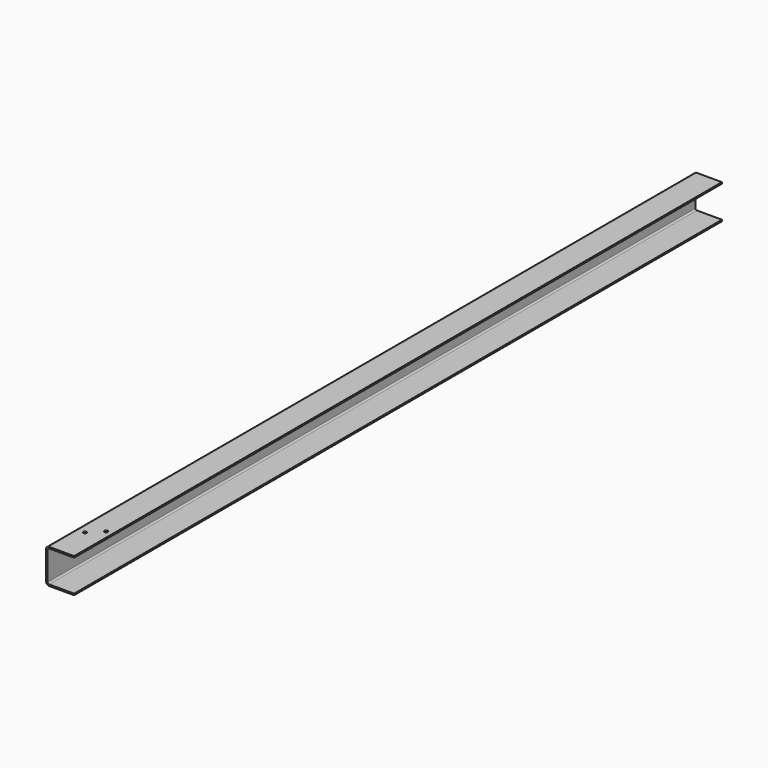
from build123d import *

# Parameters (mm, degrees)
F1_DEPTH = 2168
F4_R     = 4.5
F5_DEPTH = 4


with BuildPart() as f1:
    # F0 (on Front) → F1 (new body)
    with BuildSketch(Plane.XZ):
        with BuildLine():
            Line((-37.5, -42.25), (-37.5, -46.25))
            Line((-37.5, -46.25), (29.5, -46.25))
            ThreePointArc((29.5, -46.25), (35.1568542495, -43.9068542495), (37.5, -38.25))
            Line((37.5, -38.25), (37.5, 38.25))
            ThreePointArc((37.5, 38.25), (35.1568542495, 43.9068542495), (29.5, 46.25))
            Line((29.5, 46.25), (-37.5, 46.25))
            Line((-37.5, 46.25), (-37.5, 42.25))
            Line((-37.5, 42.25), (29.5, 42.25))
            ThreePointArc((29.5, 42.25), (32.3284271247, 41.0784271247), (33.5, 38.25))
            Line((33.5, 38.25), (33.5, -38.25))
            ThreePointArc((33.5, -38.25), (32.3284271247, -41.0784271247), (29.5, -42.25))
            Line((29.5, -42.25), (-37.5, -42.25))
        make_face()
    extrude(amount=-F1_DEPTH)

    # F4 (on offset) → F5 (cut, through all)
    with BuildSketch(Plane.XY.offset(46.25)):
        with BuildLine():
            ThreePointArc((15.867, 98), (11.367, 102.5), (6.867, 98))
            ThreePointArc((6.867, 98), (11.367, 93.5), (15.867, 98))
        make_face()
        with Locations((-20.2620720863, 129)):
            Circle(F4_R)
    extrude(amount=-F5_DEPTH, mode=Mode.SUBTRACT)


with BuildPart() as f7_1:
    # F7: instance of F1
    add(f1.part.mirror(Plane.YZ.offset(-250)))


solid = f7_1.part
